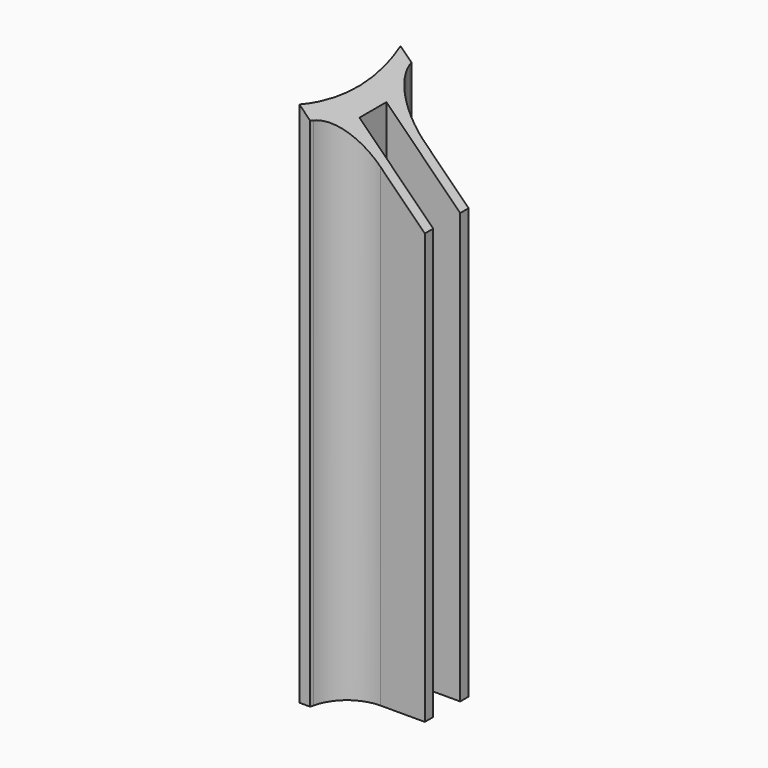
from build123d import *

# Parameters (mm, degrees)
PAD001_DEPTH      = 50
FILLET_R          = 4
POCKET_DEPTH      = 8.601
POCKET_DEPTH_BACK = 3.401


with BuildPart() as part:
    # Sketch002 → Pad001 (new body)
    with BuildSketch(Plane.XY):
        with BuildLine():
            ThreePointArc((24.269322, -6), (25, 0), (24.269322, 6))
            Line((24.269322, 6), (25.298221, 6))
            ThreePointArc((25.869673, 2.6), (25.640366, 4.309482), (25.298221, 6))
            Line((25.869673, 2.6), (33.451654, 2.6))
            Line((33.451654, 2.6), (33.451654, 1.6))
            Line((33.451654, 1.6), (26.451654, 1.6))
            Line((26.451654, 1.6), (26.451654, -1.6))
            Line((26.451654, -1.6), (33.451654, -1.6))
            Line((33.451654, -1.6), (33.451654, -2.6))
            Line((33.451654, -2.6), (25.869673, -2.6))
            ThreePointArc((25.298221, -6), (25.640366, -4.309482), (25.869673, -2.6))
            Line((24.269322, -6), (25.298221, -6))
        make_face()
    extrude(amount=PAD001_DEPTH)

    # Fillet
    fillet_edges = [part.edges().sort_by_distance(p)[0] for p in [
        (25.869673, -2.6, 25),
        (25.869673, 2.6, 25),
    ]]
    fillet(fillet_edges, radius=FILLET_R)

    # Sketch003 (on Face15 of Fillet) → Pocket (cut, two sides)
    with BuildSketch(Plane.XZ.offset(2.6)) as pocket_sk:
        Polygon((33.451654, 50), (33.451654, 40.817668), (24.269322, 50), align=None)
    extrude(amount=-POCKET_DEPTH, mode=Mode.SUBTRACT)
    extrude(pocket_sk.sketch, amount=POCKET_DEPTH_BACK, mode=Mode.SUBTRACT)


with BuildPart() as part_1:
    # Body002 placement: moved
    add(part.part.moved(Location((15, 0, 0))))


solid = part_1.part
